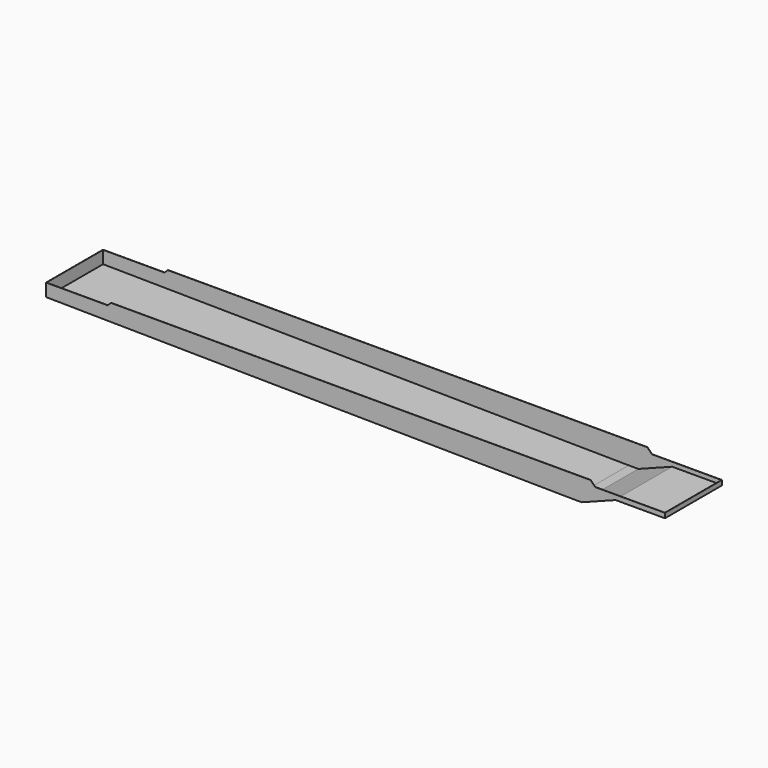
from build123d import *

# Parameters (mm, degrees)
EXTRUDE031_DEPTH = 552
EXTRUDE015_DEPTH = 555


with BuildPart() as extrude031:
    # Sketch032 → Extrude031 (new body, symmetric)
    with BuildSketch(Plane.XZ):
        Polygon((-597, -253), (362, -253), (440, -175), (7862.5, -175), (7959.5, -272), (9047, -272), (9047, -347), (8277, -347), (7749, -549), (7599, -549), (-597, -453), align=None)
    extrude(amount=EXTRUDE031_DEPTH, both=True)


with BuildPart() as extrude031_1:
    # Extrude031 placement: moved
    add(extrude031.part.moved(Location((0, 0, 3))))


with BuildPart() as cut:
    # Sketch023 → Extrude015 (new body, symmetric)
    with BuildSketch(Plane.XZ):
        Polygon((-600, -253), (362, -253), (412, -203), (7889.5, -203), (7962.5, -276), (9050, -276), (9050, -351), (8280, -351), (7752, -553), (7602, -553), (-600, -453), align=None)
    extrude(amount=EXTRUDE015_DEPTH, both=True)

    # Cut: cut Extrude031
    add(extrude031_1.part, mode=Mode.SUBTRACT)


solid = cut.part
